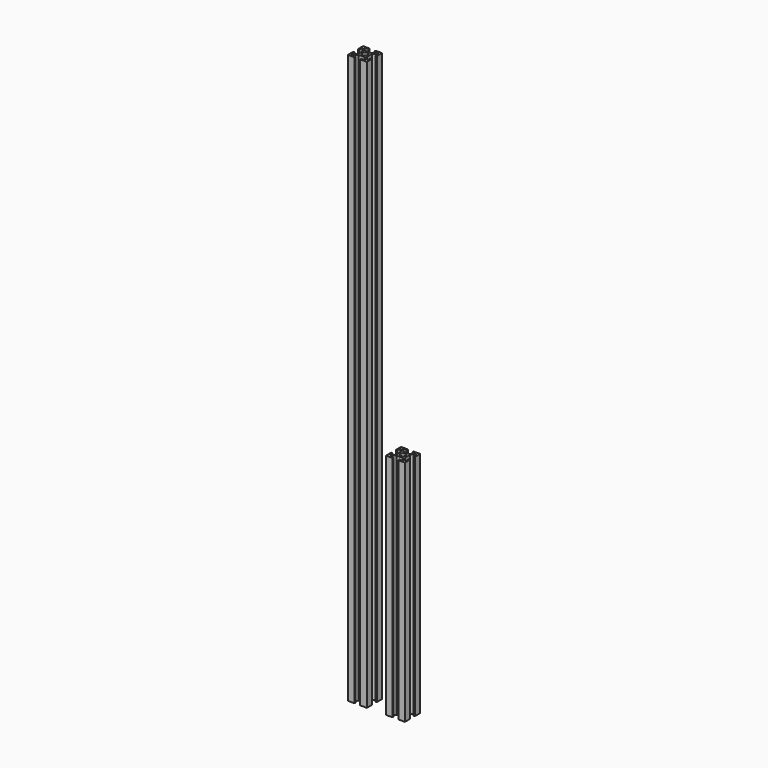
from build123d import *

# Parameters (mm, degrees)
F1_DEPTH = 598
F2_DEPTH = 240


with BuildPart() as f1:
    # F0 (on Top) → F1 (new body)
    with BuildSketch(Plane.XY):
        Polygon((-4.5, 4.5), (-3.469137, 4.5), (-7.469137, 8.5), (-3, 8.5), (-3, 10), (-10, 10), (-10, 3), (-8.5, 3), (-8.5, 7.469137), (-4.5, 3.469137), align=None)
        Polygon((4.5, 4.5), (4.5, 3.469137), (8.5, 7.469137), (8.5, 3), (10, 3), (10, 10), (3, 10), (3, 8.5), (7.469137, 8.5), (3.469137, 4.5), align=None)
        Polygon((4.5, -3.469137), (4.5, 0), (4.5, 3.469137), (4.5, 4.5), (3.469137, 4.5), (0, 4.5), (-3.469137, 4.5), (-4.5, 4.5), (-4.5, 3.469137), (-4.5, 0), (-4.5, -3.469137), (-4.5, -4.5), (-3.469137, -4.5), (0, -4.5), (3.469137, -4.5), (4.5, -4.5), align=None)
        with BuildLine():
            ThreePointArc((-2.75, 0), (-1.944544, 1.944544), (0, 2.75))
            ThreePointArc((0, 2.75), (1.944544, 1.944544), (2.75, 0))
            ThreePointArc((2.75, 0), (1.944544, -1.944544), (0, -2.75))
            ThreePointArc((0, -2.75), (-1.944544, -1.944544), (-2.75, 0))
        make_face(mode=Mode.SUBTRACT)
        Polygon((8.5, -7.469137), (4.5, -3.469137), (4.5, -4.5), (3.469137, -4.5), (7.469137, -8.5), (3, -8.5), (3, -10), (10, -10), (10, -3), (8.5, -3), align=None)
        Polygon((-7.469137, -8.5), (-3.469137, -4.5), (-4.5, -4.5), (-4.5, -3.469137), (-8.5, -7.469137), (-8.5, -3), (-10, -3), (-10, -10), (-3, -10), (-3, -8.5), align=None)
    extrude(amount=F1_DEPTH)


with BuildPart() as f2:
    # F0 (on Top) → F2 (new body)
    with BuildSketch(Plane.XY):
        Polygon((-4.5, 4.5), (-3.469137, 4.5), (-7.469137, 8.5), (-3, 8.5), (-3, 10), (-10, 10), (-10, 3), (-8.5, 3), (-8.5, 7.469137), (-4.5, 3.469137), align=None)
        Polygon((4.5, -3.469137), (4.5, 0), (4.5, 3.469137), (4.5, 4.5), (3.469137, 4.5), (0, 4.5), (-3.469137, 4.5), (-4.5, 4.5), (-4.5, 3.469137), (-4.5, 0), (-4.5, -3.469137), (-4.5, -4.5), (-3.469137, -4.5), (0, -4.5), (3.469137, -4.5), (4.5, -4.5), align=None)
        with BuildLine():
            ThreePointArc((-2.75, 0), (-1.944544, 1.944544), (0, 2.75))
            ThreePointArc((0, 2.75), (1.944544, 1.944544), (2.75, 0))
            ThreePointArc((2.75, 0), (1.944544, -1.944544), (0, -2.75))
            ThreePointArc((0, -2.75), (-1.944544, -1.944544), (-2.75, 0))
        make_face(mode=Mode.SUBTRACT)
        Polygon((4.5, 4.5), (4.5, 3.469137), (8.5, 7.469137), (8.5, 3), (10, 3), (10, 10), (3, 10), (3, 8.5), (7.469137, 8.5), (3.469137, 4.5), align=None)
        Polygon((8.5, -7.469137), (4.5, -3.469137), (4.5, -4.5), (3.469137, -4.5), (7.469137, -8.5), (3, -8.5), (3, -10), (10, -10), (10, -3), (8.5, -3), align=None)
        Polygon((-7.469137, -8.5), (-3.469137, -4.5), (-4.5, -4.5), (-4.5, -3.469137), (-8.5, -7.469137), (-8.5, -3), (-10, -3), (-10, -10), (-3, -10), (-3, -8.5), align=None)
    extrude(amount=F2_DEPTH)


with BuildPart() as f2_1:
    # F3: moved
    add(f2.part.moved(Location((40, 0, 0))))


solid = Compound([f1.part, f2_1.part])
